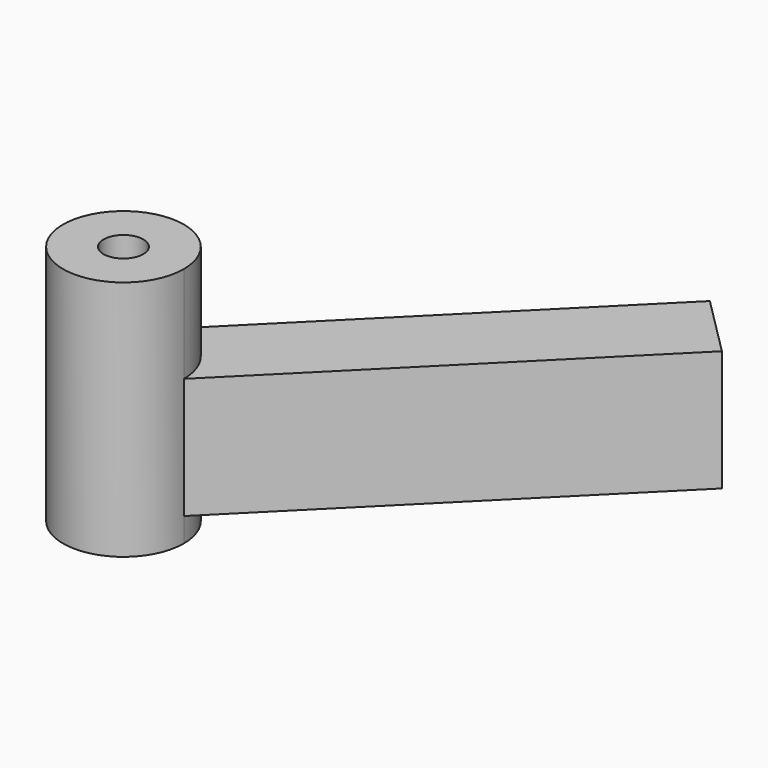
from build123d import *

# Parameters (mm, degrees)
F1_DEPTH = 20
F2_DEPTH = 12
F3_DEPTH = 2
F4_D     = 3.3


with BuildPart() as f1:
    # F0 (on Top) → F1 (new body)
    with BuildSketch(Plane.XY):
        with BuildLine():
            Line((0, 0), (0, 5))
            ThreePointArc((0, 5), (-3.5355339059, -3.5355339059), (5, 0))
            Line((5, 0), (0, 0))
        make_face()
        with BuildLine():
            Line((0, 0), (5, 0))
            ThreePointArc((5, 0), (4.6193976626, 1.9134171618), (3.5355339059, 3.5355339059))
            Line((3.5355339059, 3.5355339059), (0, 0))
        make_face()
        with BuildLine():
            ThreePointArc((3.5355339059, 3.5355339059), (1.9134171618, 4.6193976626), (0, 5))
            Line((0, 5), (0, 0))
            Line((0, 0), (3.5355339059, 3.5355339059))
        make_face()
    extrude(amount=F1_DEPTH)

    # F0 (on Top) → F2 (join)
    with BuildSketch(Plane.XY):
        with BuildLine():
            Line((24.7487373415, 29.7487373415), (0, 5))
            ThreePointArc((0, 5), (1.9134171618, 4.6193976626), (3.5355339059, 3.5355339059))
            ThreePointArc((3.5355339059, 3.5355339059), (4.6193976626, 1.9134171618), (5, 0))
            Line((5, 0), (29.7487373415, 24.7487373415))
            Line((29.7487373415, 24.7487373415), (24.7487373415, 29.7487373415))
        make_face()
    extrude(amount=F2_DEPTH)

    # F0 (on Top) → F3 (cut)
    with BuildSketch(Plane.XY):
        with BuildLine():
            Line((24.7487373415, 29.7487373415), (0, 5))
            ThreePointArc((0, 5), (1.9134171618, 4.6193976626), (3.5355339059, 3.5355339059))
            ThreePointArc((3.5355339059, 3.5355339059), (4.6193976626, 1.9134171618), (5, 0))
            Line((5, 0), (29.7487373415, 24.7487373415))
            Line((29.7487373415, 24.7487373415), (24.7487373415, 29.7487373415))
        make_face()
    extrude(amount=F3_DEPTH, mode=Mode.SUBTRACT)

    # F4 (through all)
    with Locations(Plane(origin=(0, 0, 0), x_dir=(1, 0, 0), z_dir=(0, 0, -1))):
        with Locations((0, 0)):
            Hole(F4_D / 2)


solid = f1.part
